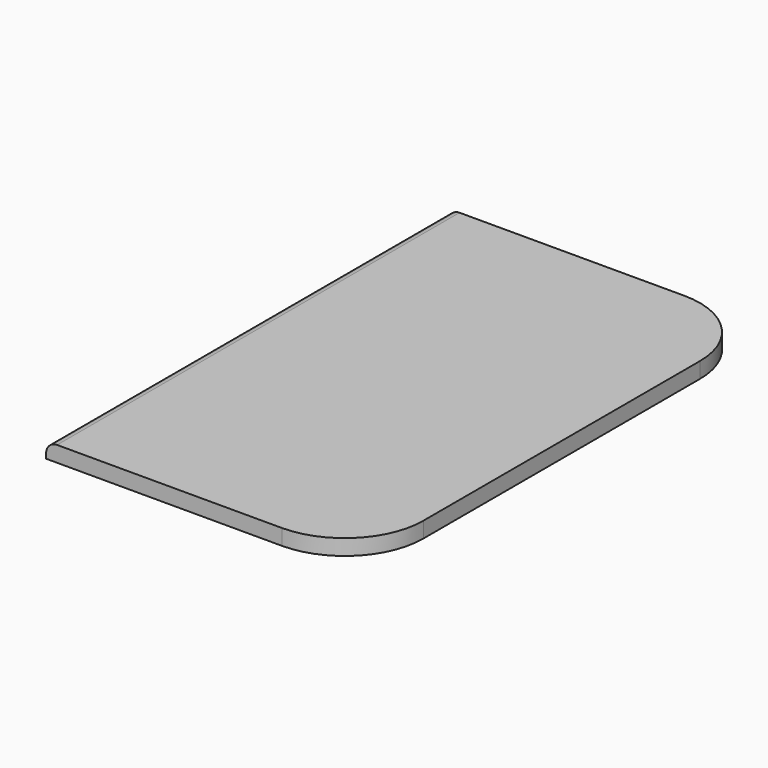
from build123d import *

# Parameters (mm, degrees)
SKETCH003_W  = 2
SKETCH003_H  = 3.2
PAD005_DEPTH = 0.1
FILLET006_R  = 0.5
FILLET007_R  = 0.07


with BuildPart() as part:
    # Sketch003 → Pad005 (new body)
    with BuildSketch(Plane.XY):
        with Locations((-4.33, 0.2)):
            Rectangle(SKETCH003_W, SKETCH003_H)
    extrude(amount=PAD005_DEPTH)

    # Fillet006
    fillet006_edges = [part.edges().sort_by_distance(p)[0] for p in [
        (-3.33, -1.4, 0.05),
        (-3.33, 1.8, 0.05),
    ]]
    fillet(fillet006_edges, radius=FILLET006_R)

    # Fillet007
    fillet007_edges = [part.edges().sort_by_distance(p)[0] for p in [
        (-5.33, 0.2, 0.1),
    ]]
    fillet(fillet007_edges, radius=FILLET007_R)


with BuildPart() as part_1:
    # Body005 placement: moved
    add(part.part.moved(Location((0, 0, 6.5))))


solid = part_1.part
